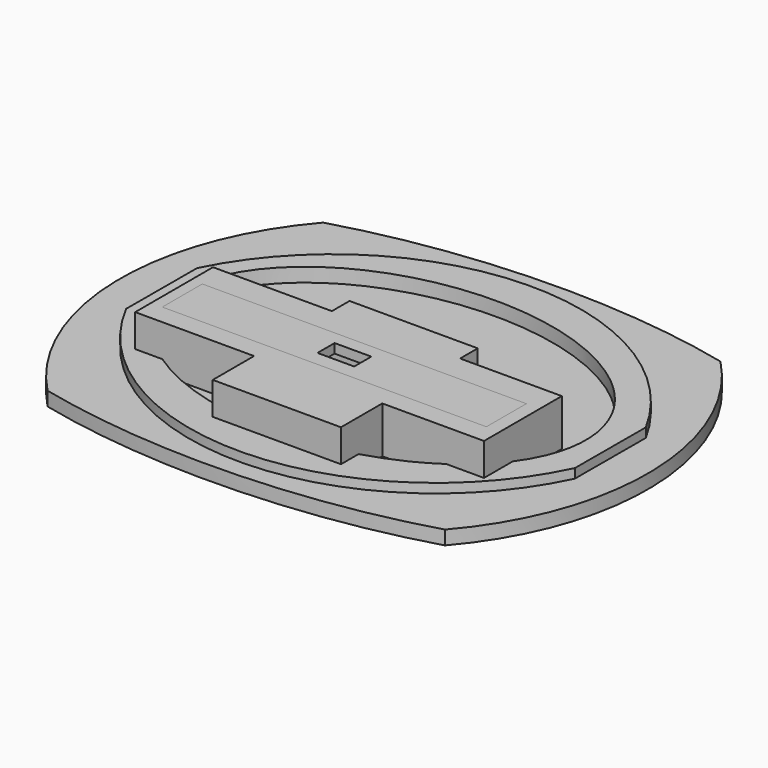
from build123d import *

# Parameters (mm, degrees)
F1_DEPTH  = 3
F2_DEPTH  = 5
F4_DEPTH  = 3
F6_DEPTH  = 10
F7_W      = 69.68
F7_H      = 10.75
F8_DEPTH  = 25
F9_DEPTH  = 23
F10_W     = 7.9
F10_H     = 4.6
F11_DEPTH = 25


with BuildPart() as f1:
    # F0 (on Top) → F1 (new body)
    with BuildSketch(Plane.XY):
        with BuildLine():
            ThreePointArc((-42.845539618, 37.1958105908), (-56.7183506808, -1.5156802814), (-40.7978468614, -39.4310066082))
            add(Edge.make_bspline(
                [(-40.7978468614, -39.4310066082), (1.3221603939, -49.4766328995), (42.845539618, -37.1958105908)],
                knots=[4.2174235222, 4.2174235222, 4.2174235222, 5.2073544386, 5.2073544386, 5.2073544386], degree=2, weights=[1, 0.8799851178, 1]))
            ThreePointArc((42.845539618, -37.1958105908), (56.7183506808, 1.5156802814), (40.7978468614, 39.4310066082))
            add(Edge.make_bspline(
                [(40.7978468614, 39.4310066082), (-1.3221603939, 49.4766328995), (-42.845539618, 37.1958105908)],
                knots=[1.0758308686, 1.0758308686, 1.0758308686, 2.065761785, 2.065761785, 2.065761785], degree=2, weights=[1, 0.8799851178, 1]))
        make_face()
        with BuildLine():
            Line((-46.686543786, -10.9511355131), (-46.6353931233, 8.0487956344))
            ThreePointArc((-46.6353931233, 8.0487956344), (0.3020996759, 37.90300692), (48.3699485287, 9.9050772031))
            Line((48.3699485287, 9.9050772031), (48.318797866, -9.0948539444))
            ThreePointArc((48.318797866, -9.0948539444), (1.3919508256, -39.4939200459), (-46.686543786, -10.9511355131))
        make_face(mode=Mode.SUBTRACT)
    extrude(amount=F1_DEPTH)

    # F0 (on Top) → F2 (join)
    with BuildSketch(Plane.XY):
        with BuildLine():
            ThreePointArc((48.3699485287, 9.9050772031), (0.3020996759, 37.90300692), (-46.6353931233, 8.0487956344))
            Line((-46.6353931233, 8.0487956344), (-46.686543786, -10.9511355131))
            ThreePointArc((-46.686543786, -10.9511355131), (1.3919508256, -39.4939200459), (48.318797866, -9.0948539444))
            Line((48.318797866, -9.0948539444), (48.3699485287, 9.9050772031))
        make_face()
    extrude(amount=F2_DEPTH)

    # F3 (on face) → F4 (cut)
    with BuildSketch(Plane.XY.offset(5)):
        with BuildLine():
            add(Edge.make_bspline(
                [(-43.4085391462, 0), (-43.4085391462, -52.2202545458), (21.7042695731, -26.1101272729), (86.8170782924, 0), (21.7042695731, 26.1101272729), (-43.4085391462, 52.2202545458), (-43.4085391462, 0)],
                knots=[0, 0, 0, 2.0943951024, 2.0943951024, 4.1887902048, 4.1887902048, 6.2831853072, 6.2831853072, 6.2831853072], degree=2, weights=[1, 0.5, 1, 0.5, 1, 0.5, 1]))
        make_face()
    extrude(amount=-F4_DEPTH, mode=Mode.SUBTRACT)

    # F5 (on face) → F6 (join)
    with BuildSketch(Plane.XY.offset(2)):
        Polygon((-36.3475600258, -0.5302710927), (-36.3475600258, -21.4373511259), (-10.7850488275, -21.4373511259), (-10.7850488275, -32.5465984643), (16.7838335037, -32.5465984643), (16.7838335037, -21.4373511259), (38.6524399742, -21.4373511259), (38.6524399742, -0.5302710927), (16.7838335037, -0.5302710927), (16.7838335037, 4.211912863), (-10.7850488275, 4.211912863), (-10.7850488275, -0.5302710927), align=None)
    extrude(amount=F6_DEPTH)

    # F7 (on face) → F8 (join)
    with BuildSketch(Plane.XY.offset(12)):
        with Locations((0.8963420987, -11.7802812491)):
            Rectangle(F7_W, F7_H)
    extrude(amount=-F8_DEPTH)

    # F9 (cut): a face of the model
    f9_faces = [f1.faces().sort_by_distance(p)[0] for p in [
        (0.8963420987, -11.7802812491, -13),
    ]]
    extrude(f9_faces, amount=-F9_DEPTH, mode=Mode.SUBTRACT)

    # F10 (on face) → F11 (cut)
    with BuildSketch(Plane.XY.offset(12)):
        with Locations((0.7682931609, -11.6048155945)):
            Rectangle(F10_W, F10_H)
    extrude(amount=-F11_DEPTH, mode=Mode.SUBTRACT)


solid = f1.part
